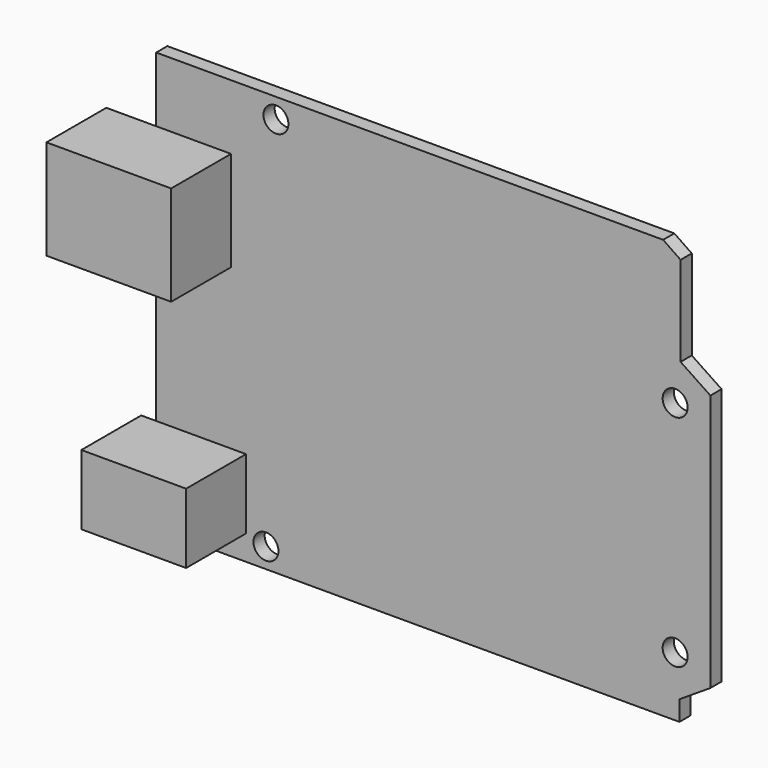
from build123d import *

# Parameters (mm, degrees)
F0_R     = 1.5875
F1_DEPTH = 1.778
F2_W     = 13.335
F2_H     = 8.89
F3_DEPTH = 9.525
F4_W     = 15.875
F4_H     = 12.7
F5_DEPTH = 9.525


with BuildPart() as f1:
    # F0 (on Front) → F1 (new body)
    with BuildSketch(Plane.XZ):
        Polygon((0, 53.34), (0, 0), (66.58718, 0), (66.58718, 2.54), (70.5304, 5.08), (70.5304, 37.846), (66.735297, 40.386), (66.735297, 51.816), (64.516, 53.34), align=None)
        with Locations((13.97, 2.54)):
            Circle(F0_R, mode=Mode.SUBTRACT)
        with Locations((66.04, 7.62)):
            Circle(F0_R, mode=Mode.SUBTRACT)
        with Locations((15.24, 50.8)):
            Circle(F0_R, mode=Mode.SUBTRACT)
        with Locations((66.04, 35.56)):
            Circle(F0_R, mode=Mode.SUBTRACT)
    extrude(amount=F1_DEPTH)

    # F2 (on face) → F3 (join)
    with BuildSketch(Plane.XZ.offset(1.778)):
        with Locations((4.7625, 7.62)):
            Rectangle(F2_W, F2_H)
    extrude(amount=F3_DEPTH)

    # F4 (on face) → F5 (join)
    with BuildSketch(Plane.XZ.offset(1.778)):
        with Locations((1.5875, 38.735)):
            Rectangle(F4_W, F4_H)
    extrude(amount=F5_DEPTH)


solid = f1.part
